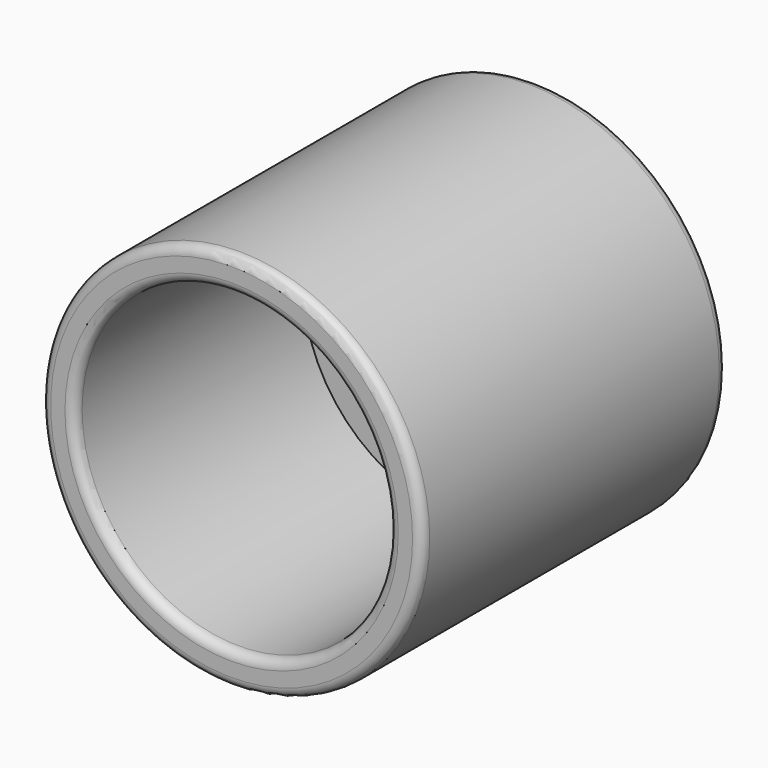
from build123d import *

# Parameters (mm, degrees)
F0_R     = 25.4
F0_R_2   = 20.955
F2_DEPTH = 50.8
F1_R     = 20.955
F3_DEPTH = 12.7
F4_R     = 1.27
F5_R     = 1.27
F6_R     = 1.27


with BuildPart() as f2:
    # F0 (on Front) → F2 (new body)
    with BuildSketch(Plane.XZ):
        Circle(F0_R)
        Circle(F0_R_2, mode=Mode.SUBTRACT)
    extrude(amount=F2_DEPTH)

    # F1 (on face) → F3 (join)
    with BuildSketch(Plane.XZ):
        Circle(F1_R)
    extrude(amount=F3_DEPTH)

    # F4
    f4_edges = [f2.edges().sort_by_distance(p)[0] for p in [
        (-25.4, -50.8, 0),
    ]]
    fillet(f4_edges, radius=F4_R)

    # F5
    f5_edges = [f2.edges().sort_by_distance(p)[0] for p in [
        (-20.955, -50.8, 0),
    ]]
    fillet(f5_edges, radius=F5_R)

    # F6
    f6_edges = [f2.edges().sort_by_distance(p)[0] for p in [
        (-25.4, 0, 0),
    ]]
    fillet(f6_edges, radius=F6_R)


solid = f2.part
